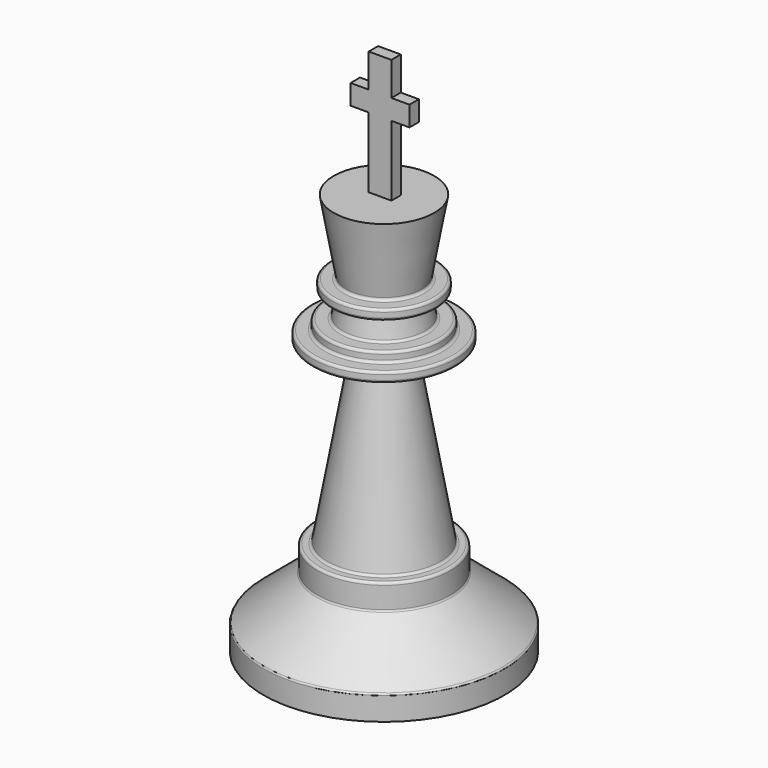
from build123d import *

# Parameters (mm, degrees)
F2_W     = 2.8684928548
F2_H     = 1.4876559726
F3_DEPTH = 8.89
F4_W     = 2.8684928548
F4_H     = 1.4876559726
F5_DEPTH = 6.7818
F4_W_2   = 2.286
F6_DEPTH = 2.54


with BuildPart() as f1:
    # F0 (on Front) → F1 (revolve)
    with BuildSketch(Plane.XZ):
        with BuildLine():
            Line((-15.24, 0), (0, 0))
            Line((0, 0), (0, 50.8))
            Line((0, 50.8), (-6.35, 50.8))
            Line((-6.35, 50.8), (-4.7617064118, 41.792339449))
            ThreePointArc((-4.7617064118, 41.792339449), (-4.8311637627, 41.5331210865), (-5.0743828734, 41.4197061526))
            Line((-5.0743828734, 41.4197061526), (-6.2835011077, 41.4197061526))
            ThreePointArc((-6.2835011077, 41.4197061526), (-6.5080075107, 41.3267125556), (-6.6010011077, 41.1022061526))
            Line((-6.6010011077, 41.1022061526), (-6.6010011077, 40.4672061526))
            ThreePointArc((-6.6010011077, 40.4672061526), (-6.5080075107, 40.2426997495), (-6.2835011077, 40.1497061526))
            Line((-6.2835011077, 40.1497061526), (-5.0743828734, 40.1497061526))
            ThreePointArc((-5.0743828734, 40.1497061526), (-4.8311637627, 40.0362912186), (-4.7617064118, 39.7770728561))
            Line((-4.7617064118, 39.7770728561), (-5.2010717431, 37.2853082403))
            ThreePointArc((-5.2010717431, 37.2853082403), (-5.3096631386, 37.0972224261), (-5.5137482047, 37.0229415367))
            Line((-5.5137482047, 37.0229415367), (-6.8348340718, 37.0229415367))
            ThreePointArc((-6.8348340718, 37.0229415367), (-7.0593404748, 36.9299479398), (-7.1523340718, 36.7054415367))
            Line((-7.1523340718, 36.7054415367), (-7.1523340718, 36.0704415367))
            ThreePointArc((-7.1523340718, 36.0704415367), (-7.2453276688, 35.8459351337), (-7.4698340718, 35.7529415367))
            Line((-7.4698340718, 35.7529415367), (-8.7398340718, 35.7529415367))
            ThreePointArc((-8.7398340718, 35.7529415367), (-8.9643404748, 35.6599479398), (-9.0573340718, 35.4354415367))
            Line((-9.0573340718, 35.4354415367), (-9.0573340718, 34.8004415367))
            ThreePointArc((-9.0573340718, 34.8004415367), (-8.9643404748, 34.5759351337), (-8.7398340718, 34.4829415367))
            Line((-8.7398340718, 34.4829415367), (-3.5686493249, 34.4829415367))
            ThreePointArc((-3.5686493249, 34.4829415367), (-3.3254302142, 34.3695266028), (-3.2559728633, 34.1103082403))
            Line((-3.2559728633, 34.1103082403), (-7.113602572, 12.2326030065))
            ThreePointArc((-7.113602572, 12.2326030065), (-7.2221939675, 12.0445171922), (-7.4262790336, 11.9702363029))
            Line((-7.4262790336, 11.9702363029), (-8.1123649007, 11.9702363029))
            ThreePointArc((-8.1123649007, 11.9702363029), (-8.3368713037, 11.8772427059), (-8.4298649007, 11.6527363029))
            Line((-8.4298649007, 11.6527363029), (-8.4298649007, 8.9432889844))
            ThreePointArc((-8.4298649007, 8.9432889844), (-8.4596121783, 8.8091076862), (-8.5432798346, 8.7000698737))
            Line((-8.5432798346, 8.7000698737), (-15.1265850661, 3.176020882))
            ThreePointArc((-15.1265850661, 3.176020882), (-15.2102527224, 3.0669830694), (-15.24, 2.9328017713))
            Line((-15.24, 2.9328017713), (-15.24, 0))
        make_face()
    revolve(axis=Axis((0, 0, 25.4), (0, 0, 1)))

    # F2 (on face) → F3 (join)
    with BuildSketch(Plane.XY.offset(50.8)):
        with Locations((-0.0257457141, 0.1550679153)):
            Rectangle(F2_W, F2_H)
    extrude(amount=F3_DEPTH)

    # F4 (on face) → F5 (join)
    with BuildSketch(Plane.XY.offset(59.69)):
        with Locations((-0.0257457141, 0.1550679153)):
            Rectangle(F4_W, F4_H)
    extrude(amount=F5_DEPTH)

    # F4 (on face) → F6 (join)
    with BuildSketch(Plane.XY.offset(59.69)):
        with Locations((2.5515007133, 0.1550679153)):
            Rectangle(F4_W_2, F4_H)
        with Locations((-2.6029921415, 0.1550679153)):
            Rectangle(F4_W_2, F4_H)
    extrude(amount=F6_DEPTH)

    # F0 (on Front) → F7 (revolve)
    with BuildSketch(Plane.XZ):
        with BuildLine():
            Line((-15.24, 0), (0, 0))
            Line((0, 0), (0, 50.8))
            Line((0, 50.8), (-6.35, 50.8))
            Line((-6.35, 50.8), (-4.7617064118, 41.792339449))
            ThreePointArc((-4.7617064118, 41.792339449), (-4.8311637627, 41.5331210865), (-5.0743828734, 41.4197061526))
            Line((-5.0743828734, 41.4197061526), (-6.2835011077, 41.4197061526))
            ThreePointArc((-6.2835011077, 41.4197061526), (-6.5080075107, 41.3267125556), (-6.6010011077, 41.1022061526))
            Line((-6.6010011077, 41.1022061526), (-6.6010011077, 40.4672061526))
            ThreePointArc((-6.6010011077, 40.4672061526), (-6.5080075107, 40.2426997495), (-6.2835011077, 40.1497061526))
            Line((-6.2835011077, 40.1497061526), (-5.0743828734, 40.1497061526))
            ThreePointArc((-5.0743828734, 40.1497061526), (-4.8311637627, 40.0362912186), (-4.7617064118, 39.7770728561))
            Line((-4.7617064118, 39.7770728561), (-5.2010717431, 37.2853082403))
            ThreePointArc((-5.2010717431, 37.2853082403), (-5.3096631386, 37.0972224261), (-5.5137482047, 37.0229415367))
            Line((-5.5137482047, 37.0229415367), (-6.8348340718, 37.0229415367))
            ThreePointArc((-6.8348340718, 37.0229415367), (-7.0593404748, 36.9299479398), (-7.1523340718, 36.7054415367))
            Line((-7.1523340718, 36.7054415367), (-7.1523340718, 36.0704415367))
            ThreePointArc((-7.1523340718, 36.0704415367), (-7.2453276688, 35.8459351337), (-7.4698340718, 35.7529415367))
            Line((-7.4698340718, 35.7529415367), (-8.7398340718, 35.7529415367))
            ThreePointArc((-8.7398340718, 35.7529415367), (-8.9643404748, 35.6599479398), (-9.0573340718, 35.4354415367))
            Line((-9.0573340718, 35.4354415367), (-9.0573340718, 34.8004415367))
            ThreePointArc((-9.0573340718, 34.8004415367), (-8.9643404748, 34.5759351337), (-8.7398340718, 34.4829415367))
            Line((-8.7398340718, 34.4829415367), (-3.5686493249, 34.4829415367))
            ThreePointArc((-3.5686493249, 34.4829415367), (-3.3254302142, 34.3695266028), (-3.2559728633, 34.1103082403))
            Line((-3.2559728633, 34.1103082403), (-7.113602572, 12.2326030065))
            ThreePointArc((-7.113602572, 12.2326030065), (-7.2221939675, 12.0445171922), (-7.4262790336, 11.9702363029))
            Line((-7.4262790336, 11.9702363029), (-8.1123649007, 11.9702363029))
            ThreePointArc((-8.1123649007, 11.9702363029), (-8.3368713037, 11.8772427059), (-8.4298649007, 11.6527363029))
            Line((-8.4298649007, 11.6527363029), (-8.4298649007, 8.9432889844))
            ThreePointArc((-8.4298649007, 8.9432889844), (-8.4596121783, 8.8091076862), (-8.5432798346, 8.7000698737))
            Line((-8.5432798346, 8.7000698737), (-15.1265850661, 3.176020882))
            ThreePointArc((-15.1265850661, 3.176020882), (-15.2102527224, 3.0669830694), (-15.24, 2.9328017713))
            Line((-15.24, 2.9328017713), (-15.24, 0))
        make_face()
    revolve(axis=Axis((0, 0, 25.4), (0, 0, 1)))


solid = f1.part
